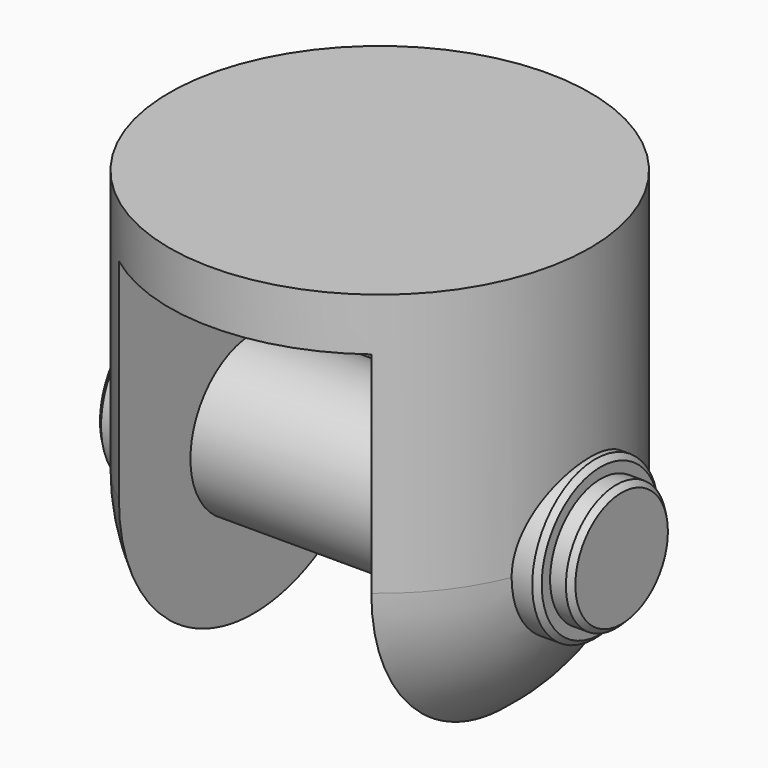
from build123d import *

# Parameters (mm, degrees)
F3_DEPTH      = 20.001
F3_DEPTH_BACK = 20.001
F4_R          = 7.5
F5_DEPTH      = 21
F7_R          = 6
F8_DEPTH      = 2
F8_DEPTH_BACK = 9
F9_SIZE       = 0.5


with BuildPart() as f1:
    # F0 (on Front) → F1 (revolve)
    with BuildSketch(Plane.XZ):
        with BuildLine():
            Line((20, 0), (0, 0))
            Line((0, 0), (0, -45))
            ThreePointArc((0, -45), (14.1421356237, -39.1421356237), (20, -25))
            Line((20, -25), (20, 0))
        make_face()
    revolve(axis=Axis((0, 0, 4.3592059342), (0, 0, 1)))

    # F2 (on Front) → F3 (cut, two sides)
    with BuildSketch(Plane.XZ) as f3_sk:
        Polygon((0, -45), (12, -45), (12, -5), (0, -5), (-12, -5), (-12, -45), align=None)
    extrude(amount=-F3_DEPTH, mode=Mode.SUBTRACT)
    extrude(f3_sk.sketch, amount=F3_DEPTH_BACK, mode=Mode.SUBTRACT)

    # F4 (on Right) → F5 (join, through all)
    with BuildSketch(Plane.YZ):
        with Locations((0, -25)):
            Circle(F4_R)
    extrude(amount=F5_DEPTH)

    # F6: F1 across plane


with BuildPart() as f1_1:
    add(f1.part)
    add(f1.part.mirror(Plane.YZ))

    # F7 (on face) → F8 (join, two sides)
    with BuildSketch(Plane.YZ.offset(21)) as f8_sk:
        with Locations((0, -25)):
            Circle(F7_R)
    extrude(amount=F8_DEPTH)
    extrude(f8_sk.sketch, amount=-F8_DEPTH_BACK)

    # F9
    f9_edges = [f1_1.edges().sort_by_distance(p)[0] for p in [
        (23, -6, -25),
        (-21, -7.5, -25),
        (21, -7.5, -25),
    ]]
    chamfer(f9_edges, length=F9_SIZE)


solid = f1_1.part
